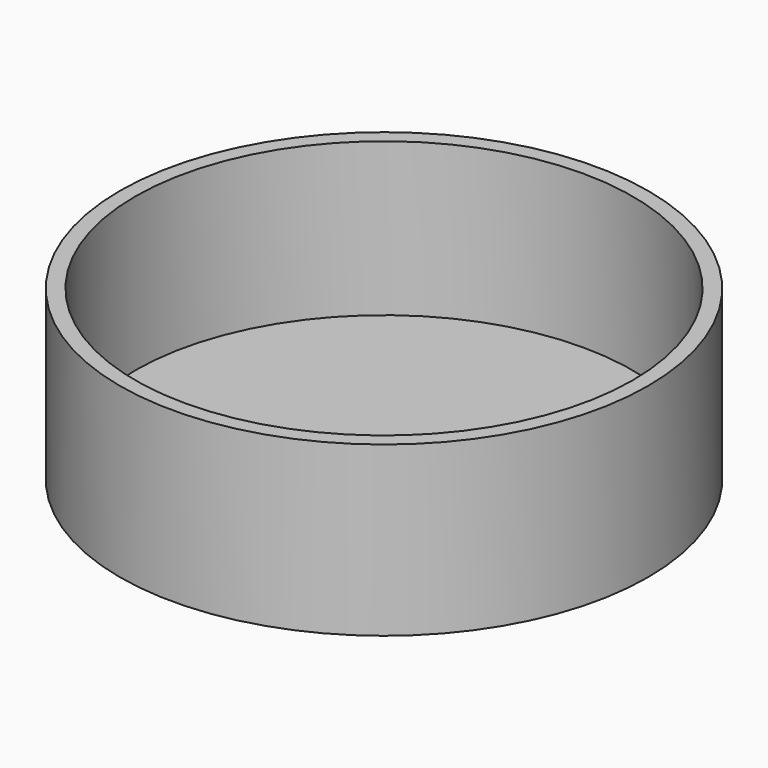
from build123d import *

# Parameters (mm, degrees)
F0_R     = 17.25
F1_DEPTH = 11
F2_R     = 16.25
F3_DEPTH = 10


with BuildPart() as f1:
    # F0 (on Top) → F1 (new body)
    with BuildSketch(Plane.XY):
        Circle(F0_R)
    extrude(amount=F1_DEPTH)

    # F2 (on face) + F0 (on Top) → F3 (cut)
    with BuildSketch(Plane.XY.offset(11)):
        Circle(F2_R)
    with BuildSketch(Plane.XY):
        Circle(F0_R)
    extrude(amount=-F3_DEPTH, mode=Mode.SUBTRACT)


solid = f1.part
